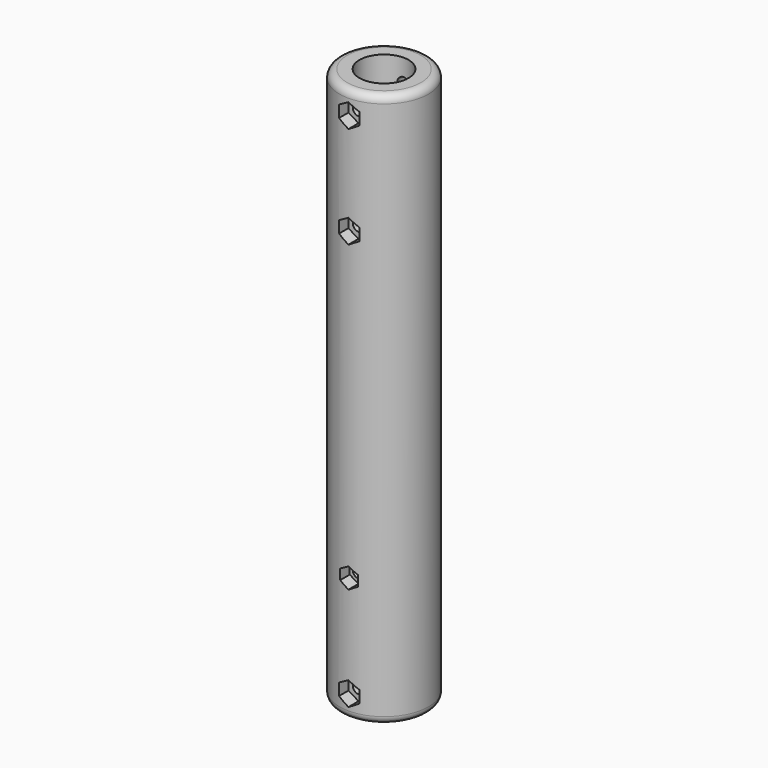
from build123d import *

# Parameters (mm, degrees)
SKETCH002_R          = 17.5
SKETCH002_R_2        = 9.65
PAD001_DEPTH         = 109
PAD001_DEPTH_BACK    = 109
SKETCH003_R          = 11.25
SKETCH003_R_2        = 6
POCKET001_DEPTH      = 28
POCKET001_DEPTH_BACK = 28
POCKET002_DEPTH      = 5
SKETCH005_R          = 2.3
POCKET003_DEPTH      = 50
POCKET003_DEPTH_BACK = 50
FILLET001_R          = 3


with BuildPart() as part:
    # Sketch002 → Pad001 (new body, two sides)
    with BuildSketch(Plane.XY) as pad001_sk:
        Circle(SKETCH002_R)
        Circle(SKETCH002_R_2, mode=Mode.SUBTRACT)
    extrude(amount=PAD001_DEPTH)
    extrude(pad001_sk.sketch, amount=-PAD001_DEPTH_BACK)

    # Sketch003 → Pocket001 (cut, two sides)
    with BuildSketch(Plane.XY) as pocket001_sk:
        Circle(SKETCH003_R)
        Circle(SKETCH003_R_2, mode=Mode.SUBTRACT)
    extrude(amount=-POCKET001_DEPTH, mode=Mode.SUBTRACT)
    extrude(pocket001_sk.sketch, amount=POCKET001_DEPTH_BACK, mode=Mode.SUBTRACT)

    # Sketch004 (on DatumPlane) → Pocket002 (cut)
    with BuildSketch(Plane.XZ.offset(17.5)):
        Polygon((0, 95.333333), (4.041452, 97.666667), (4.041452, 102.333333), (0, 104.666667), (-4.041452, 102.333333), (-4.041452, 97.666667), align=None)
        Polygon((4.041452, 57.666667), (4.041452, 62.333333), (0, 64.666667), (-4.041452, 62.333333), (-4.041452, 57.666667), (0, 55.333333), align=None)
        Polygon((0, -64.041452), (3.5, -62.020726), (3.5, -57.979274), (0, -55.958548), (-3.5, -57.979274), (-3.5, -62.020726), align=None)
        Polygon((4.041452, -102.333333), (4.041452, -97.666667), (0, -95.333333), (-4.041452, -97.666667), (-4.041452, -102.333333), (0, -104.666667), align=None)
    extrude(amount=-POCKET002_DEPTH, mode=Mode.SUBTRACT)

    # Sketch005 → Pocket003 (cut, two sides)
    with BuildSketch(Plane.XZ) as pocket003_sk:
        with Locations((0, 60)):
            Circle(SKETCH005_R)
        with Locations((0, 100)):
            Circle(SKETCH005_R)
        with Locations((0, -60)):
            Circle(SKETCH005_R)
        with Locations((0, -100)):
            Circle(SKETCH005_R)
    extrude(amount=-POCKET003_DEPTH, mode=Mode.SUBTRACT)
    extrude(pocket003_sk.sketch, amount=POCKET003_DEPTH_BACK, mode=Mode.SUBTRACT)

    # Fillet001
    fillet001_edges = [part.edges().sort_by_distance(p)[0] for p in [
        (-17.5, 0, 109),
        (-17.5, 0, -109),
    ]]
    fillet(fillet001_edges, radius=FILLET001_R)


solid = part.part
